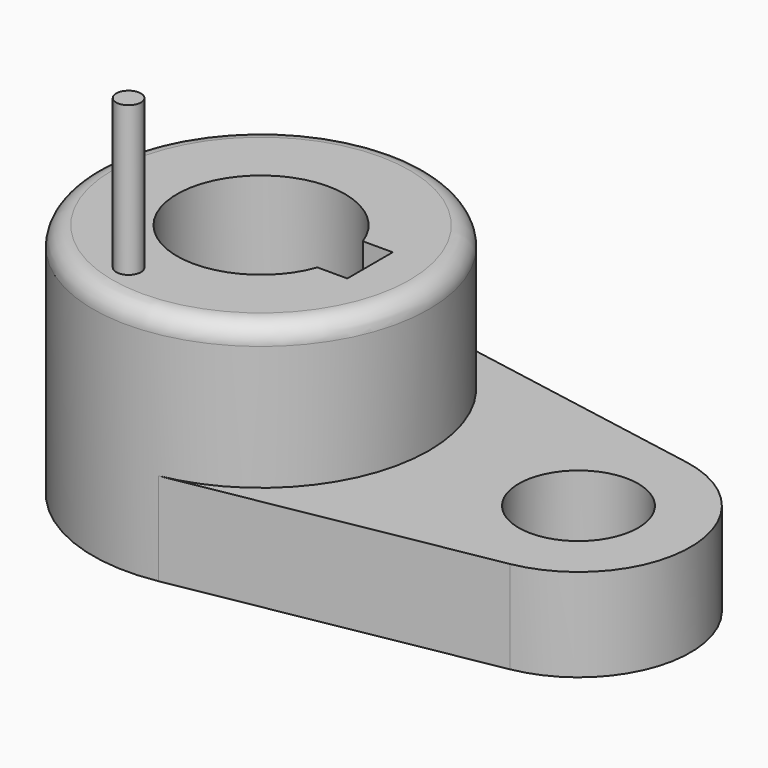
from build123d import *

# Parameters (mm, degrees)
F0_R     = 28.575
F1_DEPTH = 40.2336
F2_R     = 10.16
F3_DEPTH = 15.7734
F4_R     = 3.302
F5_R     = 2.102171
F6_DEPTH = 25.4


with BuildPart() as f1:
    # F0 (on Top) → F1 (new body)
    with BuildSketch(Plane.XY):
        Circle(F0_R)
        with BuildLine():
            ThreePointArc((13.447765, -4.826), (-14.2875, 0), (13.447765, 4.826))
            Line((13.447765, 4.826), (18.5293, 4.826))
            Line((18.5293, 4.826), (18.5293, -4.826))
            Line((18.5293, -4.826), (13.447765, -4.826))
        make_face(mode=Mode.SUBTRACT)
    extrude(amount=F1_DEPTH)

    # F2 (on Top) → F3 (join)
    with BuildSketch(Plane.XY):
        with BuildLine():
            Line((5.042647, -28.126541), (57.336765, -18.751028))
            ThreePointArc((57.336765, -18.751028), (73.025, 0), (57.336765, 18.751028))
            Line((57.336765, 18.751028), (5.042647, 28.126541))
            ThreePointArc((5.042647, 28.126541), (28.575, 0), (5.042647, -28.126541))
        make_face()
        with Locations((53.975, 0)):
            Circle(F2_R, mode=Mode.SUBTRACT)
    extrude(amount=F3_DEPTH)

    # F4
    f4_edges = [f1.edges().sort_by_distance(p)[0] for p in [
        (-28.575, 0, 40.2336),
    ]]
    fillet(f4_edges, radius=F4_R)

    # F5 (on face) → F6 (join)
    with BuildSketch(Plane.XY.offset(40.2336)):
        with Locations((-6.10288, -20.530477)):
            Circle(F5_R)
    extrude(amount=F6_DEPTH)


solid = f1.part
